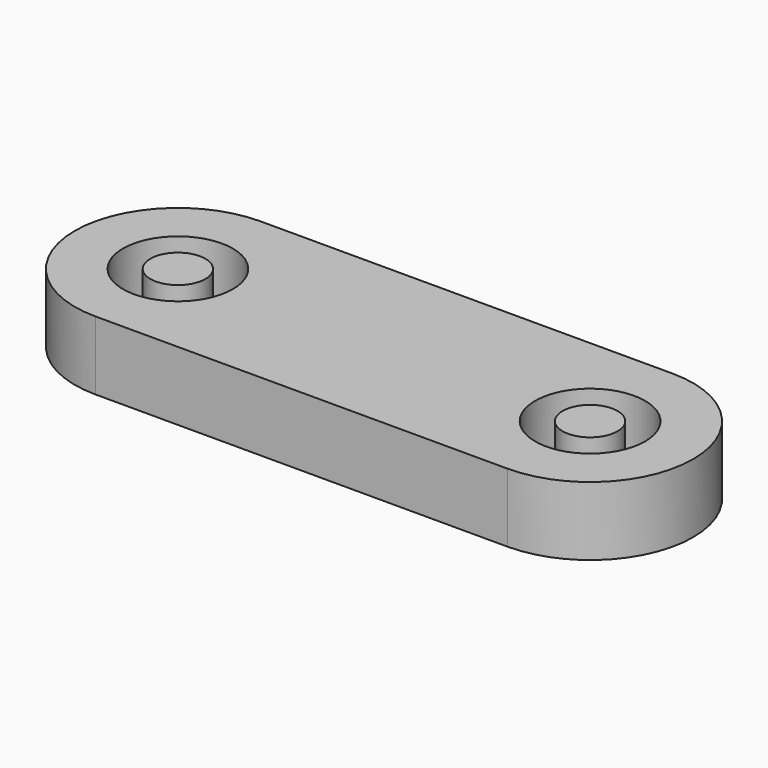
from build123d import *

# Parameters (mm, degrees)
F0_R     = 4
F1_DEPTH = 5
F2_R     = 2
F3_DEPTH = 5


with BuildPart() as f1:
    # F0 (on Top) → F1 (new body)
    with BuildSketch(Plane.XY):
        with BuildLine():
            Line((30, 7.5), (0, 7.5))
            ThreePointArc((0, 7.5), (-7.5, 0), (0, -7.5))
            Line((0, -7.5), (30, -7.5))
            ThreePointArc((30, -7.5), (37.5, 0), (30, 7.5))
        make_face()
        Circle(F0_R, mode=Mode.SUBTRACT)
        with Locations((30, 0)):
            Circle(F0_R, mode=Mode.SUBTRACT)
    extrude(amount=F1_DEPTH)


with BuildPart() as f3:
    # F2 (on Top) → F3 (new body)
    with BuildSketch(Plane.XY):
        Circle(F2_R)
        with Locations((30, 0)):
            Circle(F2_R)
    extrude(amount=F3_DEPTH)


solid = Compound([f1.part, f3.part])
